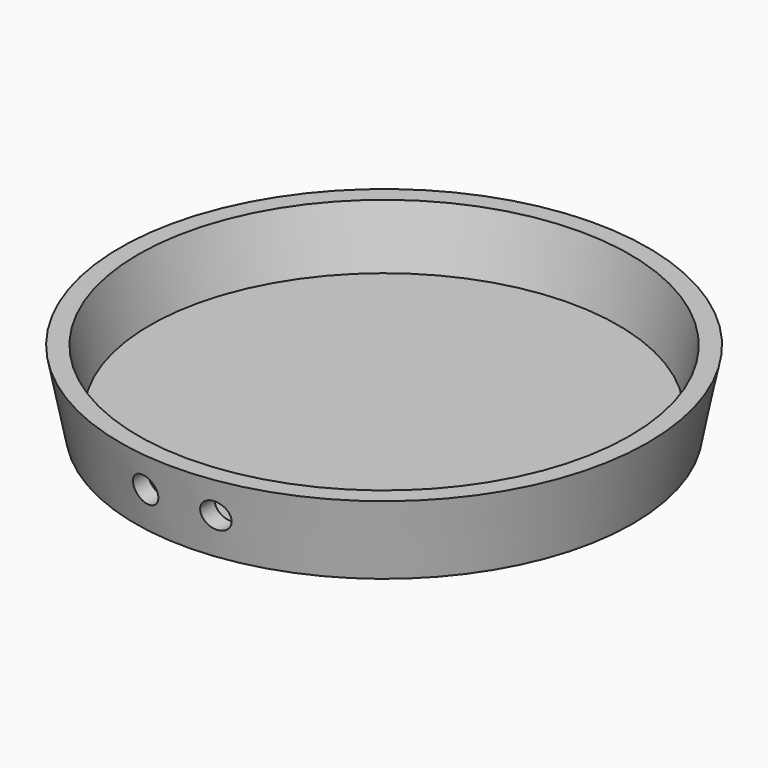
from build123d import *

# Parameters (mm, degrees)
F3_R     = 3
F4_DEPTH = 15


with BuildPart() as f1:
    # F0 (on Front) → F1 (revolve)
    with BuildSketch(Plane.XZ):
        Polygon((50, 0), (0, 0), (0, -3.81), (53.123453, -3.81), (56.385453, 12.5), (52.5, 12.5), align=None)
    revolve(axis=Axis((0, 0, 6.25), (0, 0, 1)))

    # F3 (on offset) → F4 (cut)
    with BuildSketch(Plane.XZ.offset(56.5)):
        with Locations((7.5, 5)):
            Circle(F3_R)
        with Locations((-7.5, 5)):
            Circle(F3_R)
    extrude(amount=-F4_DEPTH, mode=Mode.SUBTRACT)


solid = f1.part
